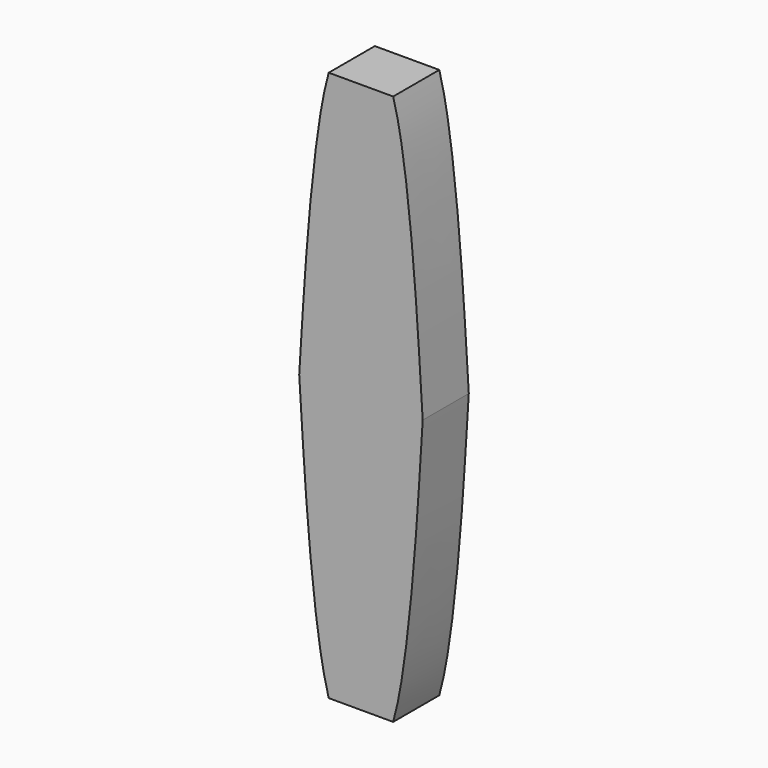
from build123d import *

# Parameters (mm, degrees)
F1_DEPTH = 350


with BuildPart() as f1:
    # F0 (on Front) → F1 (new body)
    with BuildSketch(Plane.XZ):
        with BuildLine():
            add(Edge.make_bspline(
                [(-50.3085330129, 7.0031764917), (-34.8224270973, 261.5651752578), (-5.7634010584, 739.2400530489), (52.6270769414, 1309.9470569172), (100.0752237011, 1576.5091370704), (128.9173662663, 1679.0565252304)],
                knots=[0, 0, 0, 0, 0.2789501804, 0.5234382742, 0.717191034, 0.717191034, 0.717191034, 0.717191034], degree=3))
            add(Edge.make_bspline(
                [(-50.3085330129, 7.0031764917), (-34.8224270973, -247.5588222744), (-5.7634010584, -725.2337000654), (52.6270769414, -1295.9407039338), (100.0752237011, -1562.502784087), (128.9173662663, -1665.050172247)],
                knots=[0, 0, 0, 0, 0.2789501804, 0.5234382742, 0.717191034, 0.717191034, 0.717191034, 0.717191034], degree=3))
            Line((128.9173662663, -1665.050172247), (520.465567708, -1665.050172247))
            add(Edge.make_bspline(
                [(699.6914669871, 7.0031764917), (684.2053610716, -247.5588222744), (655.1463350327, -725.2337000654), (596.7558570328, -1295.9407039338), (549.3077102732, -1562.502784087), (520.465567708, -1665.050172247)],
                knots=[0, 0, 0, 0, 0.2789501804, 0.5234382742, 0.717191034, 0.717191034, 0.717191034, 0.717191034], degree=3))
            add(Edge.make_bspline(
                [(699.6914669871, 7.0031764917), (684.2053610716, 261.5651752578), (655.1463350327, 739.2400530489), (596.7558570328, 1309.9470569172), (549.3077102732, 1576.5091370704), (520.465567708, 1679.0565252304)],
                knots=[0, 0, 0, 0, 0.2789501804, 0.5234382742, 0.717191034, 0.717191034, 0.717191034, 0.717191034], degree=3))
            Line((520.465567708, 1679.0565252304), (128.9173662663, 1679.0565252304))
        make_face()
    extrude(amount=F1_DEPTH)


solid = f1.part
